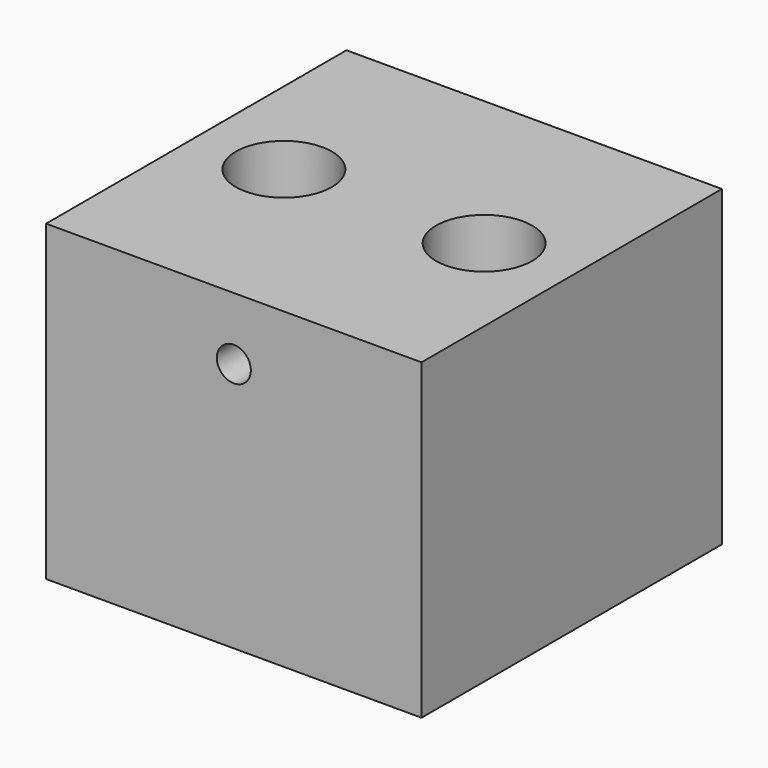
from build123d import *

# Parameters (mm, degrees)
F0_W           = 38.1
F0_H           = 38.1
F1_DEPTH       = 31.75
F3_D           = 3.4544
F5_D           = 5.5
F5_CBORE_D     = 9.75
F5_CBORE_DEPTH = 22.225


with BuildPart() as f1:
    # F0 (on Top) → F1 (new body)
    with BuildSketch(Plane.XY):
        Rectangle(F0_W, F0_H)
    extrude(amount=F1_DEPTH)

    # F3 (through all)
    with Locations(Plane.XZ.offset(19.05)):
        with Locations((0, 25.4)):
            Hole(F3_D / 2)

    # F5 (through all)
    with Locations(Plane.XY.offset(31.75)):
        with Locations((10.16, 0), (-10.16, 0)):
            CounterBoreHole(F5_D / 2, F5_CBORE_D / 2, F5_CBORE_DEPTH)


solid = f1.part
